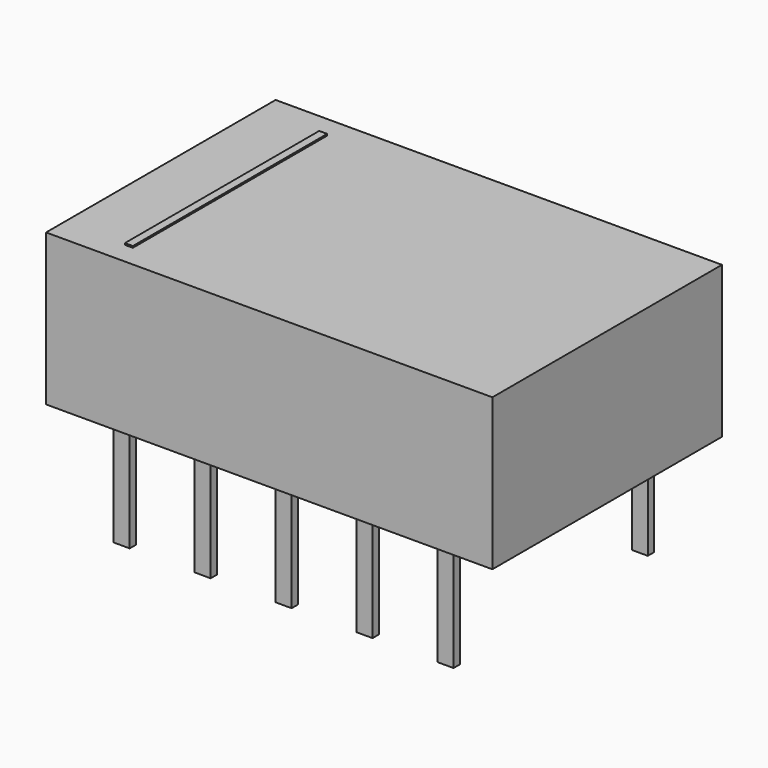
from build123d import *

# Parameters (mm, degrees)
SKETCH_W     = 14
SKETCH_H     = 9
PAD_DEPTH    = 4.75
SKETCH001_W  = 0.25
SKETCH001_H  = 7.62
PAD001_DEPTH = 0.2
SKETCH002_W  = 0.5
SKETCH002_H  = 0.25
PAD002_DEPTH = 3.5


with BuildPart() as pad:
    # Sketch → Pad (new body)
    with BuildSketch(Plane.XY):
        with Locations((5.08, 3.81)):
            Rectangle(SKETCH_W, SKETCH_H)
    extrude(amount=PAD_DEPTH)


with BuildPart() as pad001:
    # Sketch001 → Pad001 (new body)
    with BuildSketch(Plane.XY.offset(4.6)):
        with Locations((0.125, 3.81)):
            Rectangle(SKETCH001_W, SKETCH001_H)
    extrude(amount=PAD001_DEPTH)


with BuildPart() as pad002:
    # Sketch002 → Pad002 (new body)
    with BuildSketch(Plane.XY):
        Rectangle(SKETCH002_W, SKETCH002_H)
        with Locations((2.54, 0)):
            Rectangle(SKETCH002_W, SKETCH002_H)
        with Locations((5.08, 0)):
            Rectangle(SKETCH002_W, SKETCH002_H)
        with Locations((7.62, 0)):
            Rectangle(SKETCH002_W, SKETCH002_H)
        with Locations((10.16, 0)):
            Rectangle(SKETCH002_W, SKETCH002_H)
        with Locations((-0.004201, 7.62)):
            Rectangle(SKETCH002_W, SKETCH002_H)
        with Locations((2.535799, 7.62)):
            Rectangle(SKETCH002_W, SKETCH002_H)
        with Locations((5.075799, 7.62)):
            Rectangle(SKETCH002_W, SKETCH002_H)
        with Locations((7.615799, 7.62)):
            Rectangle(SKETCH002_W, SKETCH002_H)
        with Locations((10.155799, 7.62)):
            Rectangle(SKETCH002_W, SKETCH002_H)
    extrude(amount=-PAD002_DEPTH)


solid = Compound([pad.part, pad001.part, pad002.part])
